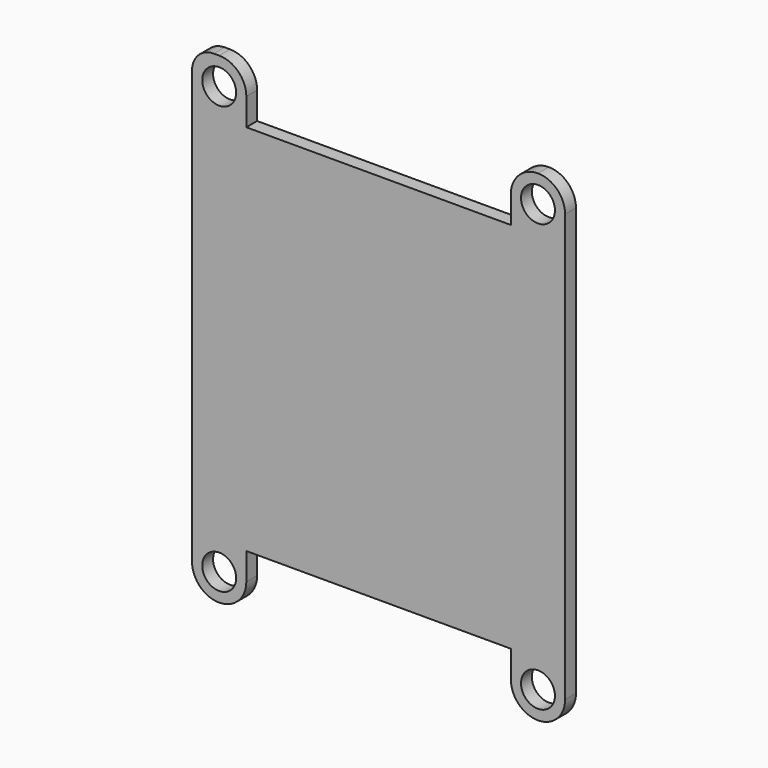
from build123d import *

# Parameters (mm, degrees)
F0_R     = 15.875
F1_DEPTH = 12.7


with BuildPart() as f1:
    # F0 (on Front) → F1 (new body)
    with BuildSketch(Plane.XZ):
        with BuildLine():
            Line((6.68072, 451.008485), (1.60072, 451.008485))
            ThreePointArc((1.60072, 451.008485), (-12.76769, 445.056895), (-18.71928, 430.688485))
            Line((-18.71928, 430.688485), (-18.71928, 25.558485))
            ThreePointArc((-18.71928, 25.558485), (-11.279792, 7.597973), (6.68072, 0.158485))
            ThreePointArc((6.68072, 0.158485), (24.641232, 7.597973), (32.08072, 25.558485))
            Line((32.08072, 25.558485), (32.08072, 50.958485))
            Line((32.08072, 50.958485), (279.73072, 50.958485))
            Line((279.73072, 50.958485), (279.73072, 25.558485))
            ThreePointArc((279.73072, 25.558485), (287.170208, 7.597973), (305.13072, 0.158485))
            ThreePointArc((305.13072, 0.158485), (323.091232, 7.597973), (330.53072, 25.558485))
            Line((330.53072, 25.558485), (330.53072, 425.608485))
            ThreePointArc((330.53072, 425.608485), (323.091232, 443.568997), (305.13072, 451.008485))
            ThreePointArc((305.13072, 451.008485), (287.170208, 443.568997), (279.73072, 425.608485))
            Line((279.73072, 425.608485), (279.73072, 400.208485))
            Line((279.73072, 400.208485), (32.08072, 400.208485))
            Line((32.08072, 400.208485), (32.08072, 425.608485))
            ThreePointArc((32.08072, 425.608485), (24.641232, 443.568997), (6.68072, 451.008485))
        make_face()
        with Locations((6.68072, 25.558485)):
            Circle(F0_R, mode=Mode.SUBTRACT)
        with Locations((305.13072, 25.558485)):
            Circle(F0_R, mode=Mode.SUBTRACT)
        with Locations((6.68072, 425.608485)):
            Circle(F0_R, mode=Mode.SUBTRACT)
        with Locations((305.13072, 425.608485)):
            Circle(F0_R, mode=Mode.SUBTRACT)
    extrude(amount=F1_DEPTH)


solid = f1.part
